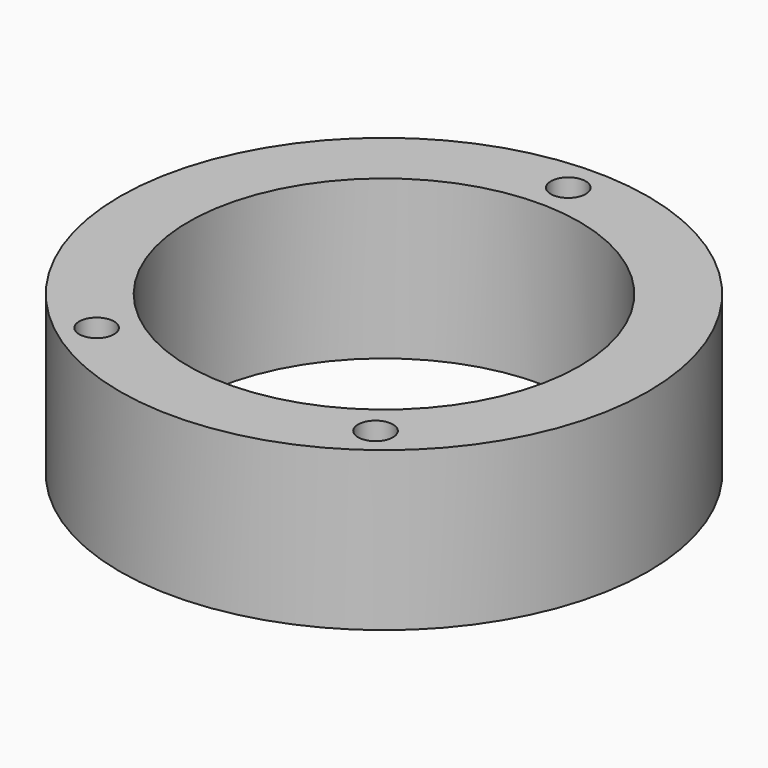
from build123d import *

# Parameters (mm, degrees)
F0_R     = 31.75
F0_R_2   = 2.0955
F0_R_3   = 23.5
F1_DEPTH = 9.525


with BuildPart() as f1:
    # F0 (on Top) → F1 (new body, symmetric)
    with BuildSketch(Plane.XY):
        Circle(F0_R)
        with Locations((-16.764, -22.225)):
            Circle(F0_R_2, mode=Mode.SUBTRACT)
        with Locations((16.764, -22.225)):
            Circle(F0_R_2, mode=Mode.SUBTRACT)
        Circle(F0_R_3, mode=Mode.SUBTRACT)
        with Locations((0, 27.686)):
            Circle(F0_R_2, mode=Mode.SUBTRACT)
    extrude(amount=F1_DEPTH, both=True)


solid = f1.part
